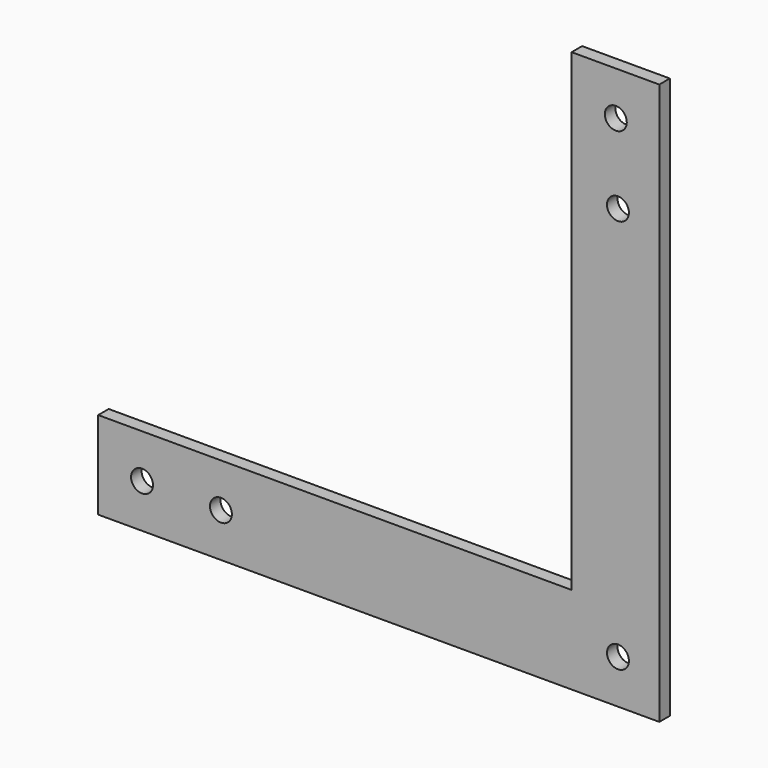
from build123d import *

# Parameters (mm, degrees)
F0_R     = 7.9375
F0_W     = 63.5
F0_H     = 342.9
F1_DEPTH = 9.525


with BuildPart() as f1:
    # F0 (on Front) → F1 (new body)
    with BuildSketch(Plane.XZ):
        Polygon((139.7, 31.75), (-203.2, 31.75), (-203.2, -31.75), (203.2, -31.75), (203.2, 31.75), align=None)
        with Locations((-171.45, 0)):
            Circle(F0_R, mode=Mode.SUBTRACT)
        with Locations((-114.3, 0)):
            Circle(F0_R, mode=Mode.SUBTRACT)
        with Locations((173.255295, 0)):
            Circle(F0_R, mode=Mode.SUBTRACT)
        with Locations((171.45, 203.2)):
            Rectangle(F0_W, F0_H)
        with Locations((173.255295, 285.75)):
            Circle(F0_R, mode=Mode.SUBTRACT)
        with Locations((171.710387, 342.9)):
            Circle(F0_R, mode=Mode.SUBTRACT)
    extrude(amount=F1_DEPTH)


solid = f1.part
